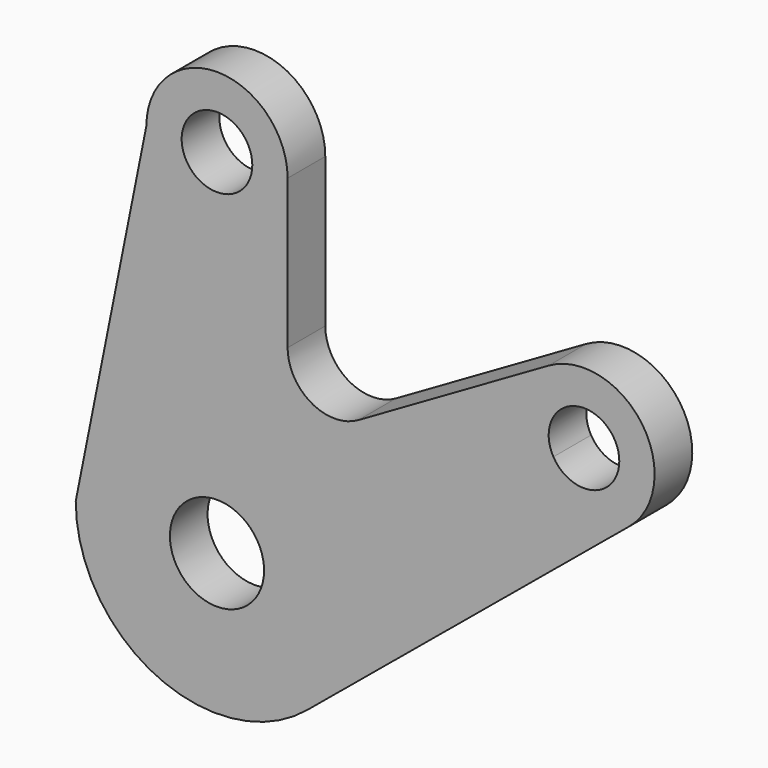
from build123d import *

# Parameters (mm, degrees)
F0_R     = 7.5
F1_DEPTH = 10


with BuildPart() as f1:
    # F0 (on Front) → F1 (new body)
    with BuildSketch(Plane.XZ):
        with BuildLine():
            Line((-15, 75), (-30, 0))
            ThreePointArc((-30, 0), (-12.7747838671, -27.1441503302), (19.1203264767, -23.1173769149))
            Line((19.1203264767, -23.1173769149), (87.5024495789, 33.4413115426))
            ThreePointArc((87.5024495789, 33.4413115426), (90.2599676015, 53.5600659083), (70.4422863406, 57.9903810568))
            Line((70.4422863406, 57.9903810568), (30, 34.6410161514))
            ThreePointArc((30, 34.6410161514), (20, 34.6410161514), (15, 43.3012701892))
            Line((15, 43.3012701892), (15, 75))
            ThreePointArc((15, 75), (0, 90), (-15, 75))
        make_face()
        with BuildLine():
            ThreePointArc((8.6602540378, 5), (9.6592582629, 2.588190451), (10, 0))
            ThreePointArc((10, 0), (-9.6592582629, -2.588190451), (8.6602540378, 5))
        make_face(mode=Mode.SUBTRACT)
        with Locations((0, 75)):
            Circle(F0_R, mode=Mode.SUBTRACT)
        with BuildLine():
            ThreePointArc((85.4422863406, 45), (79.8834291789, 37.7555563028), (71.4470958122, 41.25))
            ThreePointArc((71.4470958122, 41.25), (76.0011435023, 52.2444436972), (85.4422863406, 45))
        make_face(mode=Mode.SUBTRACT)
    extrude(amount=F1_DEPTH)


solid = f1.part
